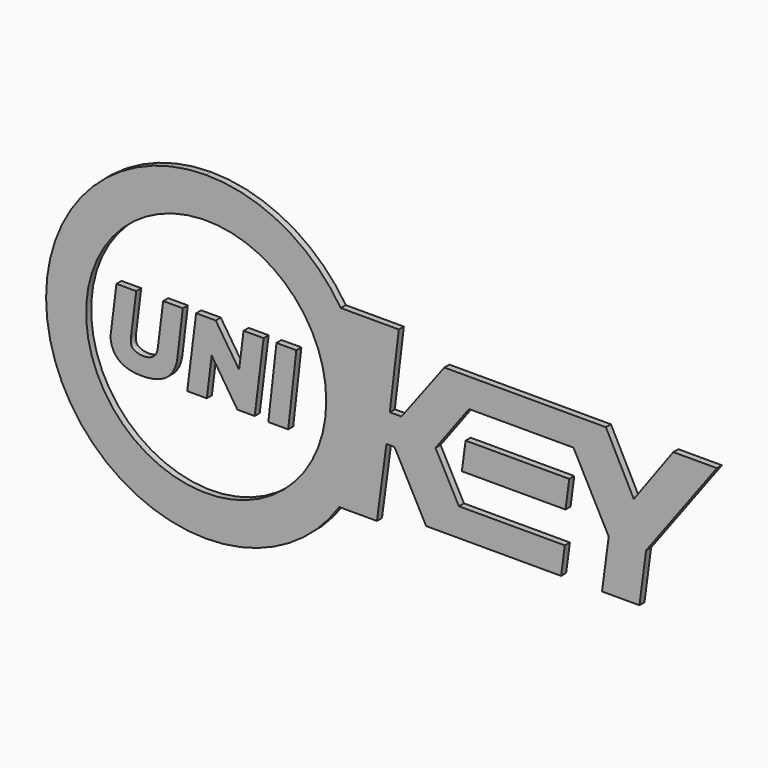
from build123d import *

# Parameters (mm, degrees)
F2_DEPTH = 1
F1_R     = 19.05


with BuildPart() as f2:
    # F1 (on Front) → F2 (new body)
    with BuildSketch(Plane.XZ):
        Polygon((82.9961871263, 27.0818155259), (66.5535926819, 27.0818155259), (65.9620339516, 22.6049686938), (82.404628396, 22.6049686938), align=None)
    extrude(amount=F2_DEPTH)


with BuildPart() as f2b:
    # F1 (on Front) → F2, piece 2 (new body)
    with BuildSketch(Plane.XZ):
        with BuildLine():
            ThreePointArc((46.7516648161, 39.1574128956), (49.7669067213, 32.5703456566), (50.8, 25.4))
            ThreePointArc((50.8, 25.4), (49.7048843477, 18.0221549998), (46.5139687522, 11.2804984674))
            Line((46.5139687522, 11.2804984674), (52.4864755571, 11.2804984674))
            Line((52.4864755571, 11.2804984674), (53.9994613201, 22.5333180279))
            Line((53.9994613201, 22.5333180279), (55.2576243713, 22.5333180279))
            Line((55.2576243713, 22.5333180279), (60.2951698917, 13.1082339212))
            Line((60.2951698917, 13.1082339212), (81.7060988754, 13.1082339212))
            Line((81.7060988754, 13.1082339212), (82.295195533, 17.5664480776))
            Line((82.295195533, 17.5664480776), (65.4909238219, 17.5664480776))
            Line((65.4909238219, 17.5664480776), (61.780732125, 24.5080962777))
            Line((61.780732125, 24.5080962777), (67.0903518244, 31.6653137458))
            Line((67.0903518244, 31.6653137458), (83.6714297758, 31.6653137458))
            Line((83.6714297758, 31.6653137458), (89.2562275008, 21.0553194691))
            Line((89.2562275008, 21.0553194691), (88.1979187112, 13.0461631343))
            Line((88.1979187112, 13.0461631343), (94.1299913311, 13.0461631343))
            Line((94.1299913311, 13.0461631343), (95.1883001206, 21.0553194691))
            Line((95.1883001206, 21.0553194691), (106.4187288825, 36.1936204135))
            Line((106.4187288825, 36.1936204135), (99.5046484973, 36.1936204135))
            Line((99.5046484973, 36.1936204135), (93.2316854596, 27.6011060923))
            Line((93.2316854596, 27.6011060923), (88.8152111079, 36.1936204135))
            Line((88.8152111079, 36.1936204135), (63.1883591413, 36.1936204135))
            Line((63.1883591413, 36.1936204135), (56.3835725188, 27.1342098713))
            Line((56.3835725188, 27.1342098713), (54.5240081847, 27.1342098713))
            Line((54.5240081847, 27.1342098713), (55.960258209, 39.1574128956))
            Line((55.960258209, 39.1574128956), (46.7516648161, 39.1574128956))
        make_face()
        with BuildLine():
            ThreePointArc((46.5139687522, 11.2804984674), (49.7048843477, 18.0221549998), (50.8, 25.4))
            ThreePointArc((50.8, 25.4), (49.7669067213, 32.5703456566), (46.7516648161, 39.1574128956))
            ThreePointArc((46.7516648161, 39.1574128956), (37.5598049419, 47.7002050164), (25.4, 50.8))
            ThreePointArc((25.4, 50.8), (0, 25.4), (25.4, 0))
            ThreePointArc((25.4, 0), (37.369224308, 2.9969272316), (46.5139687522, 11.2804984674))
        make_face()
        with Locations((25.4, 25.4)):
            Circle(F1_R, mode=Mode.SUBTRACT)
    extrude(amount=F2_DEPTH)


with BuildPart() as f2c:
    # F1 (on Front) → F2, piece 3 (new body)
    with BuildSketch(Plane.XZ):
        Polygon((23.8046244951, 30.968748033), (22.3884135485, 19.6296200156), (25.4960613407, 19.6296200156), (26.2750982098, 25.867108018), (30.3509384394, 19.6296200156), (33.0948494375, 19.6296200156), (34.5110603841, 30.968748033), (31.3294984272, 30.968748033), (30.6206891305, 25.2935487457), (26.9122722874, 30.968748033), align=None)
    extrude(amount=F2_DEPTH)


with BuildPart() as f2d:
    # F1 (on Front) → F2, piece 4 (new body)
    with BuildSketch(Plane.XZ):
        with BuildLine():
            Line((20.8305145293, 23.7536086845), (21.6873288155, 30.968748033))
            Line((21.6873288155, 30.968748033), (18.5763090849, 30.968748033))
            Line((18.5763090849, 30.968748033), (17.7352244653, 24.2344644173))
            add(Edge.make_bspline(
                [(13.4605423235, 24.2344644173), (13.4004651698, 23.7534467142), (13.442377269, 22.8075392295), (14.6638588286, 22.2768183453), (16.217162271, 22.1857318889), (17.4776914113, 22.9427442388), (17.6813921624, 23.803447148), (17.7352244653, 24.2344644173)],
                knots=[0, 0, 0, 0, 0.1990339161, 0.3870519636, 0.6036244782, 0.8049251901, 1, 1, 1, 1], degree=3))
            Line((13.4605423235, 24.2344644173), (14.3016269431, 30.968748033))
            Line((14.3016269431, 30.968748033), (11.1668603495, 30.968748033))
            Line((11.1668603495, 30.968748033), (10.2657188057, 23.7536086845))
            add(Edge.make_bspline(
                [(10.2657188057, 23.7536086845), (10.1380010349, 22.7310151535), (10.727591852, 20.7721022488), (13.1601639773, 19.3592225237), (16.9069217065, 19.3258496174), (19.8142521895, 20.5617271867), (20.6970567317, 22.6297751743), (20.8305145293, 23.7536086845)],
                knots=[0, 0, 0, 0, 0.1932762379, 0.3783953082, 0.597878443, 0.7957637049, 1, 1, 1, 1], degree=3))
        make_face()
    extrude(amount=F2_DEPTH)


with BuildPart() as f2e:
    # F1 (on Front) → F2, piece 5 (new body)
    with BuildSketch(Plane.XZ):
        Polygon((39.7005101856, 30.968748033), (36.5480764028, 30.968748033), (35.2561064065, 19.489273097), (38.4085401893, 19.489273097), align=None)
    extrude(amount=F2_DEPTH)


solid = Compound([f2.part, f2b.part, f2c.part, f2d.part, f2e.part])
